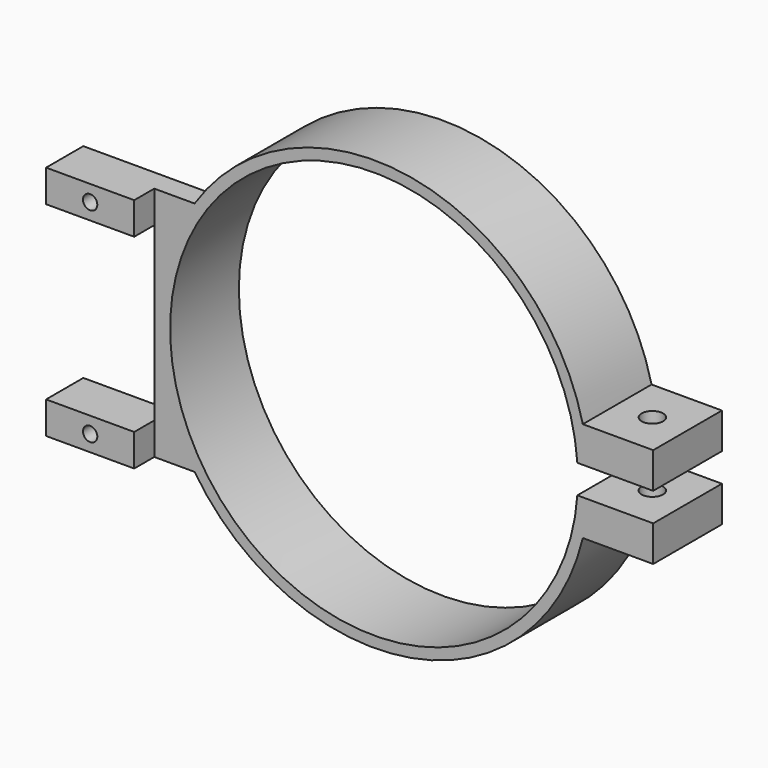
from build123d import *

# Parameters (mm, degrees)
F0_R      = 28.475
F1_DEPTH  = 12
F2_W      = 19.991411
F2_H      = 4
F3_DEPTH  = 25
F4_R      = 1.5
F5_DEPTH  = 25
F7_DEPTH  = 3
F8_W      = 12.31
F8_H      = 4.5
F9_DEPTH  = 3.5
F10_W     = 12.31
F10_H     = 24
F11_DEPTH = 25
F12_R     = 1
F13_DEPTH = 25


with BuildPart() as f1:
    # F0 (on Front) → F1 (new body)
    with BuildSketch(Plane.XZ):
        with BuildLine():
            ThreePointArc((29.171904, -7), (29.792257, -3.524406), (30, 0))
            ThreePointArc((30, 0), (29.792257, 3.524406), (29.171904, 7))
            ThreePointArc((29.171904, 7), (-30, 0), (29.171904, -7))
        make_face()
        Circle(F0_R, mode=Mode.SUBTRACT)
        with BuildLine():
            Line((39, 0), (30, 0))
            ThreePointArc((30, 0), (29.792257, -3.524406), (29.171904, -7))
            Line((29.171904, -7), (39, -7))
            Line((39, -7), (39, 0))
        make_face()
        with BuildLine():
            ThreePointArc((29.171904, 7), (29.792257, 3.524406), (30, 0))
            Line((30, 0), (39, 0))
            Line((39, 0), (39, 7))
            Line((39, 7), (29.171904, 7))
        make_face()
    extrude(amount=F1_DEPTH)

    # F2 (on face) → F3 (cut)
    with BuildSketch(Plane.XZ.offset(12)):
        with Locations((34.155282, 0)):
            Rectangle(F2_W, F2_H)
    extrude(amount=-F3_DEPTH, mode=Mode.SUBTRACT)

    # F4 (on face) → F5 (cut)
    with BuildSketch(Plane(origin=(0, 0, -7), x_dir=(1, 0, 0), z_dir=(0, 0, -1))):
        with Locations((34.085952, 6)):
            Circle(F4_R)
    extrude(amount=-F5_DEPTH, mode=Mode.SUBTRACT)

    # F6 (on face) → F7 (join)
    with BuildSketch(Plane.XZ.offset(12)):
        with BuildLine():
            Line((-43, 16.5), (-43, 0))
            Line((-43, 0), (-43, -16.5))
            Line((-43, -16.5), (-25.05494, -16.5))
            Line((-25.05494, -16.5), (-23.207232, -16.5))
            ThreePointArc((-23.207232, -16.5), (-28.595733, 0), (-23.207232, 16.5))
            Line((-23.207232, 16.5), (-25.05494, 16.5))
            Line((-25.05494, 16.5), (-43, 16.5))
        make_face()
    extrude(amount=-F7_DEPTH)

    # F8 (on face) → F9 (join)
    with BuildSketch(Plane.XZ.offset(12)):
        with Locations((-36.845, 14.25)):
            Rectangle(F8_W, F8_H)
        with Locations((-36.845, -14.25)):
            Rectangle(F8_W, F8_H)
    extrude(amount=F9_DEPTH)

    # F10 (on face) → F11 (cut)
    with BuildSketch(Plane.XZ.offset(12)):
        with Locations((-36.845, 0)):
            Rectangle(F10_W, F10_H)
    extrude(amount=-F11_DEPTH, mode=Mode.SUBTRACT)

    # F12 (on face) → F13 (cut)
    with BuildSketch(Plane(origin=(0, -9, 0), x_dir=(-1, 0, 0), z_dir=(0, 1, 0))):
        with Locations((36.845, 14.25)):
            Circle(F12_R)
        with Locations((36.845, -14.25)):
            Circle(F12_R)
    extrude(amount=-F13_DEPTH, mode=Mode.SUBTRACT)


solid = f1.part
